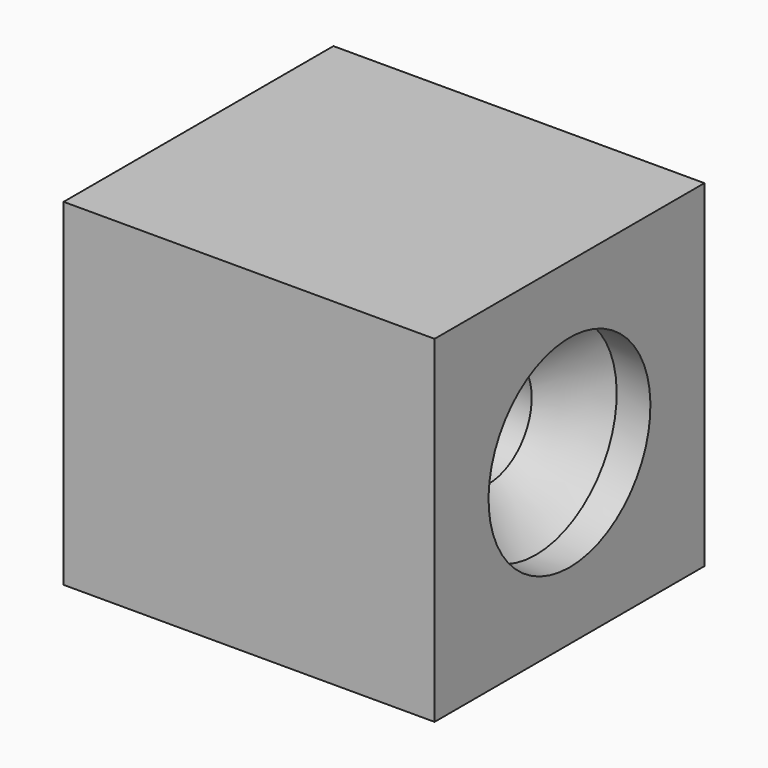
from build123d import *

# Parameters (mm, degrees)
CYLINDER006_R            = 1.6
CYLINDER006_DEPTH        = 10
BOX013_W                 = 10
BOX013_H                 = 10
BOX013_DEPTH             = 10
CHAMFER001004001004_SIZE = 1.4
CYLINDER007_R            = 3
CYLINDER007_DEPTH        = 10
BOX014_W                 = 1
BOX014_H                 = 10
BOX014_DEPTH             = 10


with BuildPart() as cylinder006:
    # Cylinder006 → Cylinder006 (new body)
    with BuildSketch(Plane(origin=(0, 0, 0), x_dir=(0, 0, -1), z_dir=(1, 0, 0))):
        Circle(CYLINDER006_R)
    extrude(amount=CYLINDER006_DEPTH)


with BuildPart() as chamfer001004001004:
    # Box013 → Box013 (new body)
    with BuildSketch(Plane(origin=(0, -5, -5), x_dir=(1, 0, 0), z_dir=(0, 0, 1))):
        with Locations((5, 5)):
            Rectangle(BOX013_W, BOX013_H)
    extrude(amount=BOX013_DEPTH)

    # Cut002003002: cut Cylinder006
    add(cylinder006.part, mode=Mode.SUBTRACT)

    # Chamfer001004001004
    chamfer001004001004_edges = [chamfer001004001004.edges().sort_by_distance(p)[0] for p in [
        (10, 0, 1.6),
    ]]
    chamfer(chamfer001004001004_edges, length=CHAMFER001004001004_SIZE)


with BuildPart() as cylinder007:
    # Cylinder007 → Cylinder007 (new body)
    with BuildSketch(Plane(origin=(5, 0, 0), x_dir=(0, 0, -1), z_dir=(1, 0, 0))):
        Circle(CYLINDER007_R)
    extrude(amount=CYLINDER007_DEPTH)


with BuildPart() as fusion004:
    # Box014 → Box014 (new body)
    with BuildSketch(Plane(origin=(10, -5, -5), x_dir=(1, 0, 0), z_dir=(0, 0, 1))):
        with Locations((0.5, 5)):
            Rectangle(BOX014_W, BOX014_H)
    extrude(amount=BOX014_DEPTH)

    # Cut002003003: cut Cylinder007
    add(cylinder007.part, mode=Mode.SUBTRACT)

    # Fusion004: union Chamfer001004001004
    add(chamfer001004001004.part)


solid = fusion004.part
